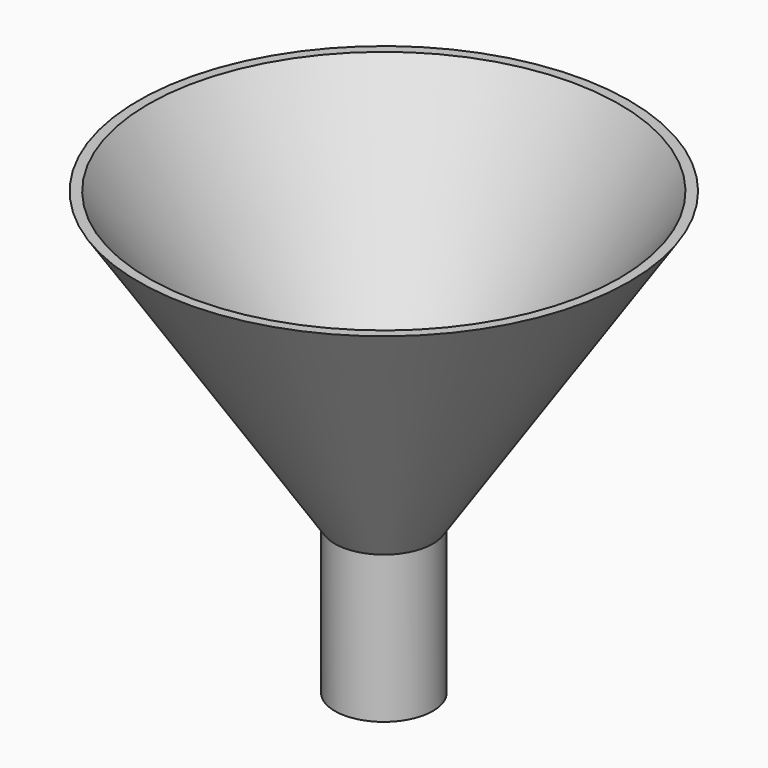
from build123d import *

# Parameters (mm, degrees)
CYLINDER001_R     = 4
CYLINDER001_DEPTH = 20
CYLINDER_R        = 5
CYLINDER_DEPTH    = 15


with BuildPart() as obj1_ext001:
    # Cone001 → Cone001 (revolve)
    with BuildSketch(Plane(origin=(0, 0, 15), x_dir=(1, 0, 0), z_dir=(0, -1, 0))):
        Polygon((0, 0), (4, 0), (24, 30), (0, 30), align=None)
    revolve(axis=Axis((0, 0, 15), (0, 0, 1)))


with BuildPart() as vaciado:
    # Cylinder001 → Cylinder001 (new body)
    with BuildSketch(Plane.XY.offset(-2)):
        Circle(CYLINDER001_R)
    extrude(amount=CYLINDER001_DEPTH)

    # Fusion001: union obj1_ext001
    add(obj1_ext001.part)


with BuildPart() as obj1_ext:
    # Cone → Cone (revolve)
    with BuildSketch(Plane(origin=(0, 0, 15), x_dir=(1, 0, 0), z_dir=(0, -1, 0))):
        Polygon((0, 0), (5, 0), (25, 30), (0, 30), align=None)
    revolve(axis=Axis((0, 0, 15), (0, 0, 1)))


with BuildPart() as obj1:
    # Cylinder → Cylinder (new body)
    with BuildSketch(Plane.XY):
        Circle(CYLINDER_R)
    extrude(amount=CYLINDER_DEPTH)

    # Fusion: union obj1_ext
    add(obj1_ext.part)

    # Cut: cut Vaciado
    add(vaciado.part, mode=Mode.SUBTRACT)


solid = obj1.part
